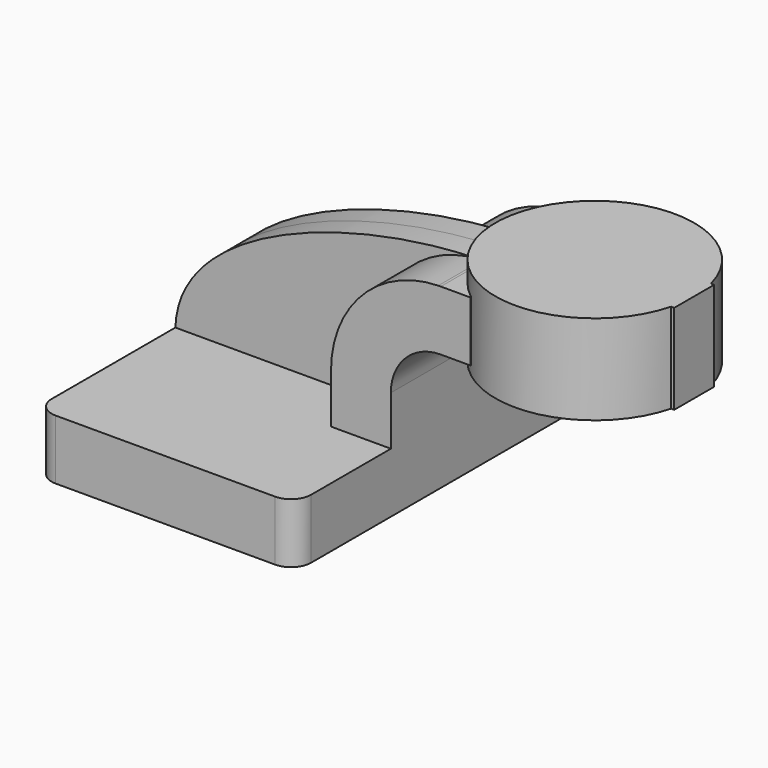
from build123d import *

# Parameters (mm, degrees)
F1_DEPTH = 63.5
F2_DEPTH = 25.4
F0_W     = 31.6445648432
F0_H     = 28.575
F3_DEPTH = 7.9375
F5_R     = 6.35


with BuildPart() as f1:
    # F0 (on Front) → F1 (new body, symmetric)
    with BuildSketch(Plane.XZ):
        Polygon((-41.275, -9.525), (41.275, -9.525), (41.275, 9.525), (22.225, 9.525), (-41.275, 9.525), align=None)
    extrude(amount=F1_DEPTH, both=True)

    # F0 (on Front) → F2 (join, symmetric)
    with BuildSketch(Plane.XZ):
        with BuildLine():
            Line((22.225, 9.525), (41.275, 9.525))
            Line((41.275, 9.525), (41.275, 25.1988060772))
            ThreePointArc((41.275, 25.1988060772), (45.9246798487, 36.4241262286), (57.15, 41.0738060772))
            Line((57.15, 41.0738060772), (66.675, 41.0738060772))
            Line((66.675, 41.0738060772), (66.675, 60.1238060772))
            Line((66.675, 60.1238060772), (57.15, 60.1238060772))
            add(Edge.make_bspline(
                [(56.3607333992, 60.1148866596), (56.6244550053, 60.118607245), (56.8875501507, 60.1215808142), (57.15, 60.1238060772)],
                knots=[109.9586728318, 109.9586728318, 109.9586728318, 109.9586728318, 110.6694167394, 110.6694167394, 110.6694167394, 110.6694167394], degree=3))
            ThreePointArc((56.3607333992, 60.1148866596), (32.1768067617, 49.6138679138), (22.225, 25.1988060772))
            Line((22.225, 25.1988060772), (22.225, 9.525))
        make_face()
    extrude(amount=F2_DEPTH, both=True)

    # F0 (on Front) → F3 (join, symmetric)
    with BuildSketch(Plane.XZ):
        Polygon((-41.275, -9.525), (41.275, -9.525), (41.275, 9.525), (22.225, 9.525), (-41.275, 9.525), align=None)
        with BuildLine():
            Line((22.225, 9.525), (41.275, 9.525))
            Line((41.275, 9.525), (41.275, 25.1988060772))
            ThreePointArc((41.275, 25.1988060772), (45.9246798487, 36.4241262286), (57.15, 41.0738060772))
            Line((57.15, 41.0738060772), (66.675, 41.0738060772))
            Line((66.675, 41.0738060772), (66.675, 60.1238060772))
            Line((66.675, 60.1238060772), (57.15, 60.1238060772))
            add(Edge.make_bspline(
                [(56.3607333992, 60.1148866596), (56.6244550053, 60.118607245), (56.8875501507, 60.1215808142), (57.15, 60.1238060772)],
                knots=[109.9586728318, 109.9586728318, 109.9586728318, 109.9586728318, 110.6694167394, 110.6694167394, 110.6694167394, 110.6694167394], degree=3))
            ThreePointArc((56.3607333992, 60.1148866596), (32.1768067617, 49.6138679138), (22.225, 25.1988060772))
            Line((22.225, 25.1988060772), (22.225, 9.525))
        make_face()
        with BuildLine():
            add(Edge.make_bspline(
                [(-41.275, 9.525), (-40.2339300381, 41.0838661131), (15.5605556063, 59.539277601), (56.3607333992, 60.1148866596)],
                knots=[0, 0, 0, 0, 109.9586728318, 109.9586728318, 109.9586728318, 109.9586728318], degree=3))
            Line((-41.275, 9.525), (22.225, 9.525))
            Line((22.225, 9.525), (22.225, 25.1988060772))
            ThreePointArc((22.225, 25.1988060772), (32.1768067617, 49.6138679138), (56.3607333992, 60.1148866596))
        make_face()
        with BuildLine():
            ThreePointArc((57.15, 60.1238060772), (56.7553415011, 60.1215761516), (56.3607333992, 60.1148866596))
            add(Edge.make_bspline(
                [(56.3607333992, 60.1148866596), (56.6244550053, 60.118607245), (56.8875501507, 60.1215808142), (57.15, 60.1238060772)],
                knots=[109.9586728318, 109.9586728318, 109.9586728318, 109.9586728318, 110.6694167394, 110.6694167394, 110.6694167394, 110.6694167394], degree=3))
        make_face()
        Polygon((66.675, 60.1238060772), (66.675, 41.0738060772), (66.675, 38.1), (85.8304351568, 38.1), (85.8304351568, 66.675), (66.675, 66.675), align=None)
        with Locations((101.6527175784, 52.3875)):
            Rectangle(F0_W, F0_H)
    extrude(amount=F3_DEPTH, both=True)

    # F0 (on Front) → F4 (revolve)
    with BuildSketch(Plane.XZ):
        with Locations((101.6527175784, 52.3875)):
            Rectangle(F0_W, F0_H)
    revolve(axis=Axis((85.8304351568, 0, 52.3875), (0, 0, 1)))

    # F5
    f5_edges = [f1.edges().sort_by_distance(p)[0] for p in [
        (-41.275, -63.5, 0),
        (41.275, -63.5, 0),
        (41.275, 63.5, 0),
        (-41.275, 63.5, 0),
    ]]
    fillet(f5_edges, radius=F5_R)


solid = f1.part
